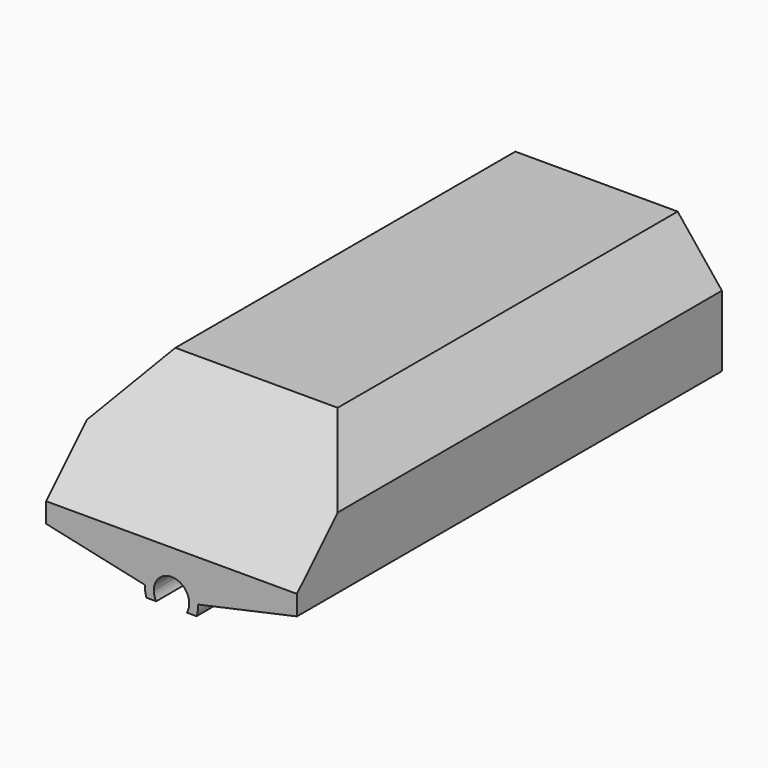
from build123d import *

# Parameters (mm, degrees)
F0_W     = 304.8
F0_H     = 304.8
F1_DEPTH = 4572
F2_SIZE  = 914.4


with BuildPart() as f1:
    # F0 (on Front) → F1 (new body)
    with BuildSketch(Plane.XZ):
        Polygon((-1079.5, 812.8), (1079.5, 812.8), (698.5, 1288.668847478), (-698.5, 1288.668847478), align=None)
        Polygon((152.4, 508), (152.4, 203.2), (1079.5, 203.2), (1079.5, 812.8), (-1079.5, 812.8), (-1079.5, 203.2), (-152.4, 203.2), (-152.4, 508), align=None)
        with Locations((0, 355.6)):
            Rectangle(F0_W, F0_H)
        Polygon((-227.9987040592, 16.5695789719), (-152.4, 0), (-152.4, 203.2), (-1079.5, 203.2), align=None)
        with BuildLine():
            ThreePointArc((-152.4, 0), (0, 152.4), (152.4, 0))
            Line((152.4, 0), (152.4, 203.2))
            Line((152.4, 203.2), (-152.4, 203.2))
            Line((-152.4, 203.2), (-152.4, 0))
        make_face()
        Polygon((152.4, 203.2), (152.4, 0), (227.9987040592, 16.5695789719), (1079.5, 203.2), align=None)
        with BuildLine():
            ThreePointArc((-131.9822715367, -76.2), (-147.2070959265, -39.4440224736), (-152.4, 0))
            Line((-152.4, 0), (-227.9987040592, 16.5695789719))
            ThreePointArc((-227.9987040592, 16.5695789719), (-226.5615193529, -30.4604325065), (-215.5261469057, -76.2))
            Line((-215.5261469057, -76.2), (-131.9822715367, -76.2))
        make_face()
        with BuildLine():
            Line((227.9987040592, 16.5695789719), (152.4, 0))
            ThreePointArc((152.4, 0), (147.2070959265, -39.4440224736), (131.9822715367, -76.2))
            Line((131.9822715367, -76.2), (215.5261469057, -76.2))
            ThreePointArc((215.5261469057, -76.2), (226.5615193529, -30.4604325065), (227.9987040592, 16.5695789719))
        make_face()
    extrude(amount=F1_DEPTH)

    # F2
    f2_edges = [f1.edges().sort_by_distance(p)[0] for p in [
        (0, -4572, 1288.668847),
    ]]
    chamfer(f2_edges, length=F2_SIZE)


solid = f1.part
